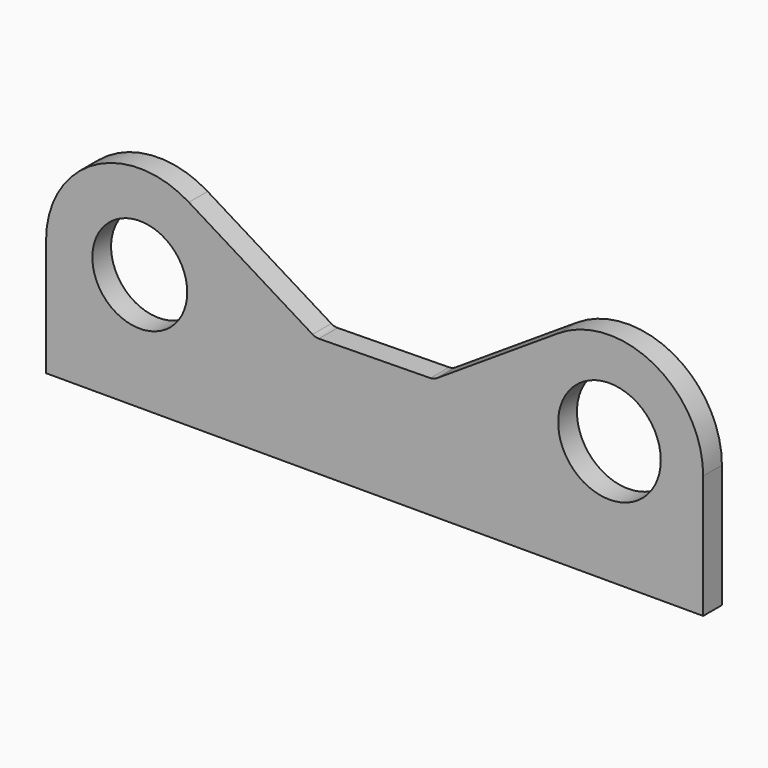
from build123d import *

# Parameters (mm, degrees)
F0_R     = 20.25
F0_R_2   = 21.895042
F1_DEPTH = 10
F2_R     = 5


with BuildPart() as f1:
    # F0 (on Front) → F1 (new body)
    with BuildSketch(Plane.XZ):
        with BuildLine():
            Line((12.9277, 20.534305), (-41.112968, 53.777097))
            ThreePointArc((-41.112968, 53.777097), (-81.586066, 54.623564), (-102.070918, 19.707106))
            Line((-102.070918, 19.707106), (-102.070918, -30.292894))
            Line((-102.070918, -30.292894), (178.429082, -30.292894))
            Line((178.429082, -30.292894), (178.429082, 22.308165))
            ThreePointArc((178.429082, 22.308165), (157.503454, 57.467351), (116.620665, 55.840134))
            Line((116.620665, 55.840134), (63.433077, 21.248158))
            Line((63.433077, 21.248158), (12.9277, 20.534305))
        make_face()
        with Locations((-62.070918, 19.707106)):
            Circle(F0_R, mode=Mode.SUBTRACT)
        with Locations((138.429082, 22.308165)):
            Circle(F0_R_2, mode=Mode.SUBTRACT)
    extrude(amount=F1_DEPTH)

    # F2
    f2_edges = [f1.edges().sort_by_distance(p)[0] for p in [
        (12.9277, -5, 20.534305),
        (63.433077, -5, 21.248158),
    ]]
    fillet(f2_edges, radius=F2_R)


solid = f1.part
